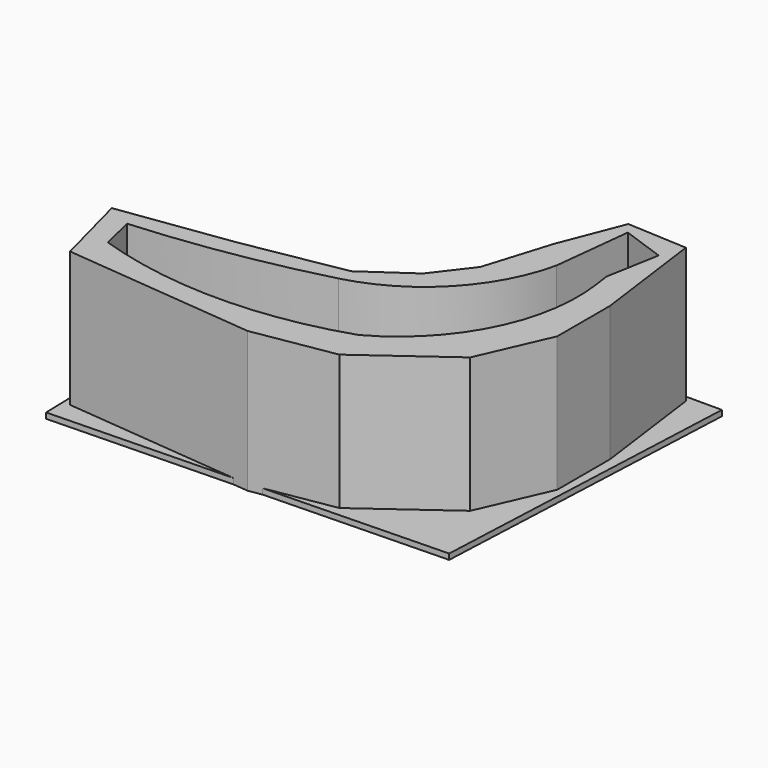
from build123d import *

# Parameters (mm, degrees)
F1_DEPTH = 50.8
F3_DEPTH = 2.032


with BuildPart() as f1:
    # F0 (on Top) → F1 (new body)
    with BuildSketch(Plane.XY):
        Polygon((70.218295, 29.107381), (64.71125, 70.192307), (43.018013, 71.334824), (34.228437, 48.793811), (26.810311, 24.778703), (16.709369, 11.59681), (0, 0), (-36.333788, -6.390758), (-76.787353, -12.058921), (-69.422603, -40.087592), (0, -46.710119), (29.229209, -41.826267), (59.103541, -20.124923), (70.218295, 5.260874), align=None)
        with BuildLine():
            Line((-64.590126, -29.07637), (-67.459159, -16.780518))
            ThreePointArc((-67.459159, -16.780518), (-33.469809, -12.810866), (0, -5.68304))
            ThreePointArc((0, -5.68304), (27.796851, 10.571584), (43.036375, 38.937666))
            Line((43.036375, 38.937666), (46.152048, 67.197248))
            Line((46.152048, 67.197248), (61.706219, 61.668124))
            Line((61.706219, 61.668124), (58.259715, 42.404731))
            Line((58.259715, 42.404731), (59.058573, 36.702011))
            ThreePointArc((59.058573, 36.702011), (52.791537, -1.34419), (26.001327, -29.07637))
            ThreePointArc((26.001327, -29.07637), (-19.294399, -36.42452), (-64.590126, -29.07637))
        make_face(mode=Mode.SUBTRACT)
    extrude(amount=F1_DEPTH)

    # F2 (on Top) → F3 (join)
    with BuildSketch(Plane.XY):
        Polygon((76.017901, 72.344795), (31.697709, 72.344795), (21.469977, 31.433862), (-22.498511, 1.319234), (-73.069147, 0), (-71.819358, -47.908563), (70.749059, -44.189386), align=None)
    extrude(amount=F3_DEPTH)


solid = f1.part
